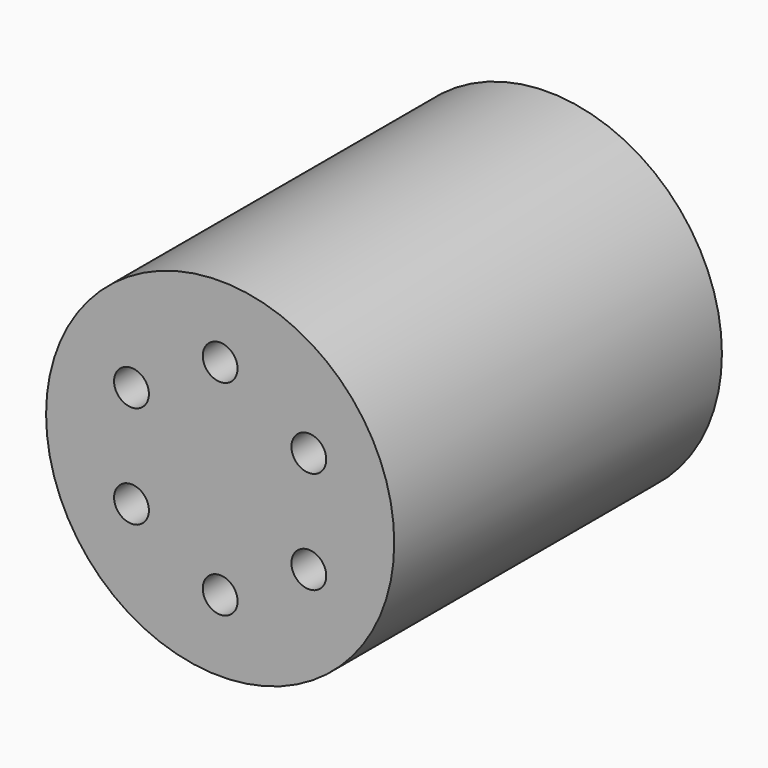
from build123d import *

# Parameters (mm, degrees)
F0_R     = 8.5
F0_R_2   = 0.85
F1_DEPTH = 20


with BuildPart() as f1:
    # F0 (on Front) → F1 (new body)
    with BuildSketch(Plane.XZ):
        Circle(F0_R)
        with Locations((-4.330127, -2.5)):
            Circle(F0_R_2, mode=Mode.SUBTRACT)
        with Locations((0, -5)):
            Circle(F0_R_2, mode=Mode.SUBTRACT)
        with Locations((4.330127, -2.5)):
            Circle(F0_R_2, mode=Mode.SUBTRACT)
        with Locations((-4.330127, 2.5)):
            Circle(F0_R_2, mode=Mode.SUBTRACT)
        with Locations((4.330127, 2.5)):
            Circle(F0_R_2, mode=Mode.SUBTRACT)
        with Locations((0, 5)):
            Circle(F0_R_2, mode=Mode.SUBTRACT)
    extrude(amount=F1_DEPTH)


solid = f1.part
